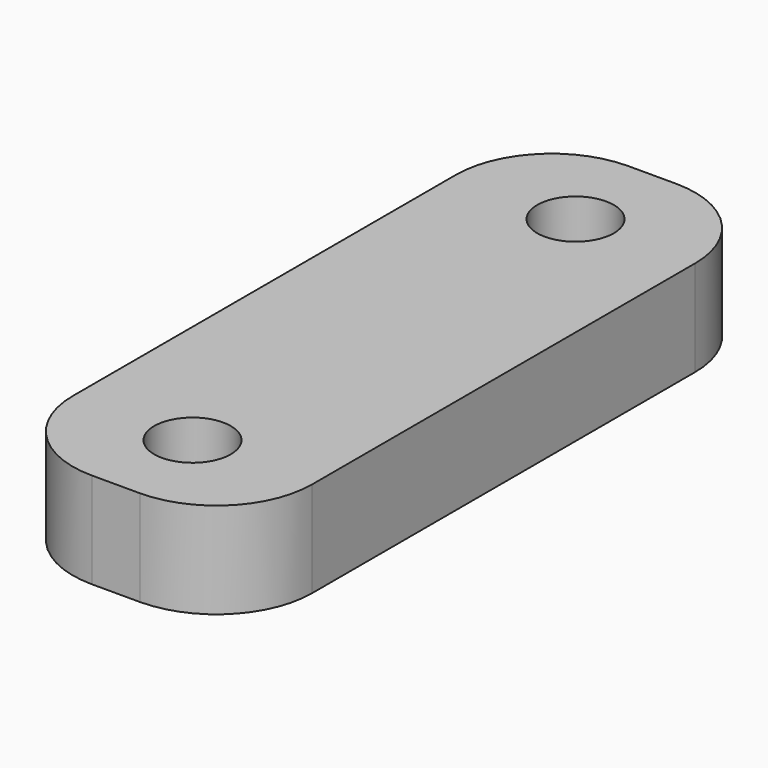
from build123d import *

# Parameters (mm, degrees)
SKETCH_W  = 10
SKETCH_H  = 28
SKETCH_R  = 1.6
PAD_DEPTH = 4
FILLET_R  = 4


with BuildPart() as part:
    # Sketch → Pad (new body)
    with BuildSketch(Plane.XY):
        with Locations((0, 14)):
            Rectangle(SKETCH_W, SKETCH_H)
        with Locations((0, 24)):
            Circle(SKETCH_R, mode=Mode.SUBTRACT)
        with Locations((0, 4)):
            Circle(SKETCH_R, mode=Mode.SUBTRACT)
    extrude(amount=PAD_DEPTH)

    # Fillet
    fillet_edges = [part.edges().sort_by_distance(p)[0] for p in [
        (5, 28, 2),
        (-5, 28, 2),
        (-5, 0, 2),
        (5, 0, 2),
    ]]
    fillet(fillet_edges, radius=FILLET_R)


solid = part.part
